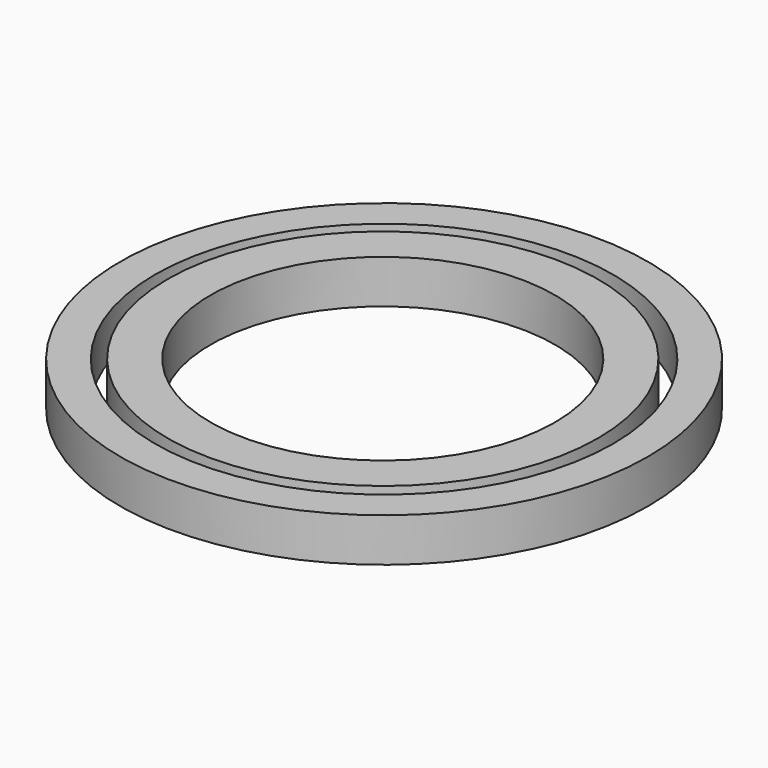
from build123d import *

# Parameters (mm, degrees)
F0_R     = 60.495
F0_R_2   = 52.5
F1_DEPTH = 10
F0_R_3   = 49.34
F0_R_4   = 39.48


with BuildPart() as f1:
    # F0 (on Top) → F1 (new body)
    with BuildSketch(Plane.XY):
        with Locations((-113.6718739706, 15.0621235371)):
            Circle(F0_R)
        with Locations((-113.6718739706, 15.0621235371)):
            Circle(F0_R_2, mode=Mode.SUBTRACT)
    extrude(amount=F1_DEPTH)


with BuildPart() as f1b:
    # F0 (on Top) → F1, piece 2 (new body)
    with BuildSketch(Plane.XY):
        with Locations((104.0291398814, 15.0621235371)):
            Circle(F0_R_3)
        with Locations((104.0291398814, 15.0621235371)):
            Circle(F0_R_4, mode=Mode.SUBTRACT)
    extrude(amount=F1_DEPTH)


with BuildPart() as f1b_1:
    # F2: moved
    add(f1b.part.moved(Location((-218, 0, 0))))


solid = Compound([f1.part, f1b_1.part])
